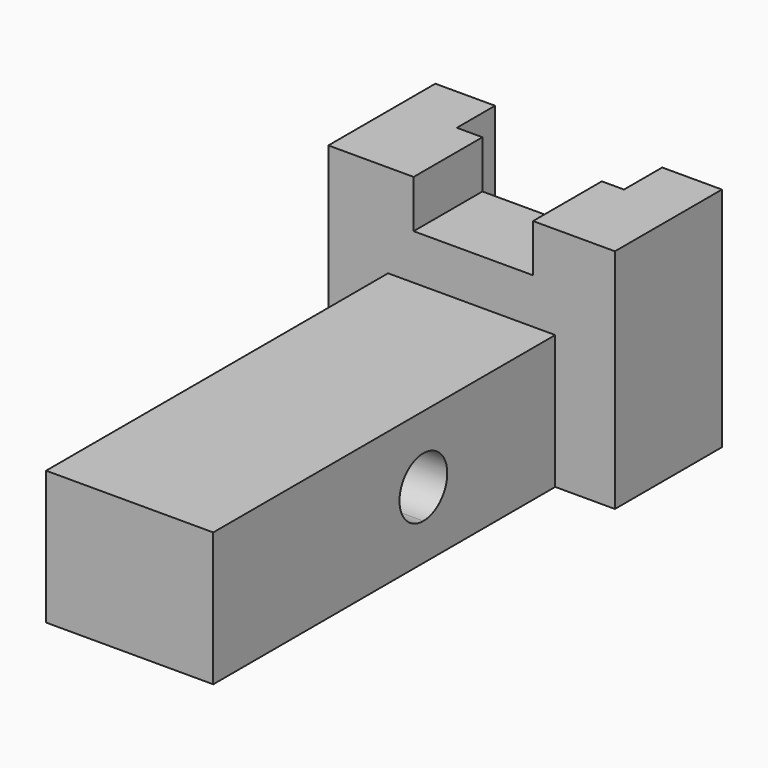
from build123d import *

# Parameters (mm, degrees)
F0_W      = 60.96
F0_H      = 48.26
F1_DEPTH  = 119.38
F3_DEPTH  = 130.81
F2_W      = 25.4
F2_H      = 18.288
F4_DEPTH  = 10.16
F6_DEPTH  = 12.7
F7_W      = 90.932
F7_H      = 28.448
F8_DEPTH  = 12.7
F9_W      = 90.932
F9_H      = 19.812
F10_DEPTH = 84.328
F12_DEPTH = 131.064


with BuildPart() as f1:
    # F0 (on Front) → F1 (new body)
    with BuildSketch(Plane.XZ):
        with Locations((8.435591, -5.991532)):
            Rectangle(F0_W, F0_H)
    extrude(amount=F1_DEPTH)

    # F2 (on face) → F3 (cut)
    with BuildSketch(Plane.XY.offset(18.138468)):
        Polygon((26.215591, 0), (-9.344409, 0), (-9.344409, -10.16), (-3.902869, -10.16), (21.497131, -10.16), (26.215591, -10.16), align=None)
    extrude(amount=-F3_DEPTH, mode=Mode.SUBTRACT)

    # F2 (on face) → F4 (cut)
    with BuildSketch(Plane.XY.offset(18.138468)):
        with Locations((8.797131, -19.304)):
            Rectangle(F2_W, F2_H)
    extrude(amount=-F4_DEPTH, mode=Mode.SUBTRACT)

    # F5 (on face) → F6 (cut)
    with BuildSketch(Plane(origin=(-22.044409, 0, 0), x_dir=(0, -1, 0), z_dir=(-1, 0, 0))):
        Polygon((28.448, -1.673532), (28.448, -30.121532), (142.968658, -30.121532), (142.526776, 0), align=None)
    extrude(amount=-F6_DEPTH, mode=Mode.SUBTRACT)

    # F7 (on face) → F8 (cut)
    with BuildSketch(Plane.YZ.offset(38.915591)):
        with Locations((-73.914, -15.897532)):
            Rectangle(F7_W, F7_H)
    extrude(amount=-F8_DEPTH, mode=Mode.SUBTRACT)

    # F9 (on face) → F10 (cut)
    with BuildSketch(Plane.YZ.offset(38.915591)):
        with Locations((-73.914, 8.232468)):
            Rectangle(F9_W, F9_H)
    extrude(amount=-F10_DEPTH, mode=Mode.SUBTRACT)

    # F11 (on face) → F12 (cut)
    with BuildSketch(Plane(origin=(-9.344409, 0, 0), x_dir=(0, -1, 0), z_dir=(-1, 0, 0))):
        with BuildLine():
            ThreePointArc((63.508675, -22.247532), (67.998803, -20.387661), (69.858675, -15.897532))
            ThreePointArc((69.858675, -15.897532), (59.018546, -11.407404), (63.508675, -22.247532))
        make_face()
    extrude(amount=-F12_DEPTH, mode=Mode.SUBTRACT)


solid = f1.part
